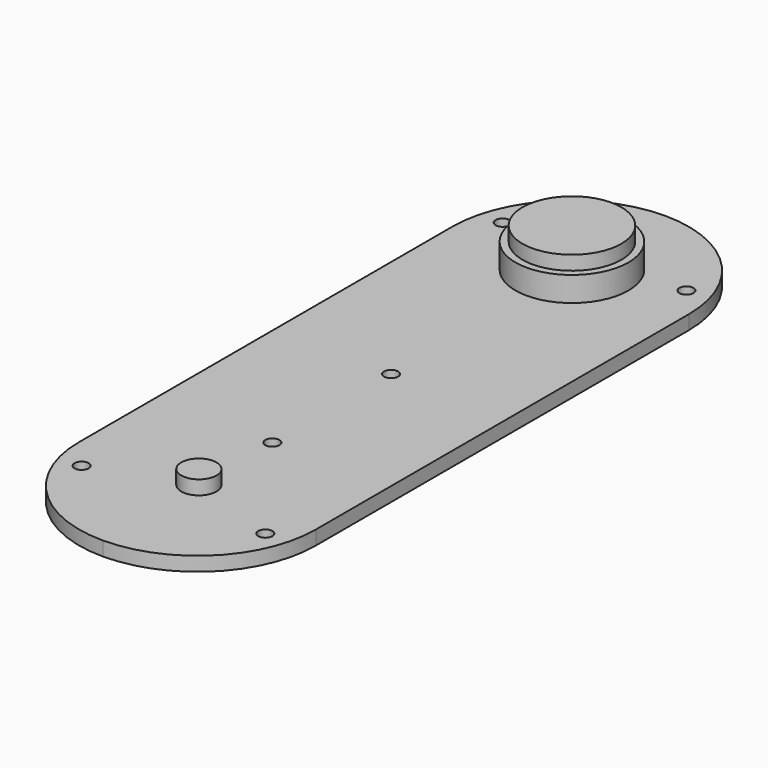
from build123d import *

# Parameters (mm, degrees)
F1_DEPTH = 2
F2_R     = 1
F3_DEPTH = 2.001
F4_R     = 8
F5_DEPTH = 3.5
F6_R     = 7
F7_DEPTH = 2
F8_R     = 2.5
F9_DEPTH = 2


with BuildPart() as f1:
    # F0 (on Top) → F1 (new body)
    with BuildSketch(Plane.XY):
        with BuildLine():
            Line((16.75, -33), (16.75, 33))
            ThreePointArc((16.75, 33), (11.844039, 44.844039), (0, 49.75))
            ThreePointArc((0, 49.75), (-11.844039, 44.844039), (-16.75, 33))
            Line((-16.75, 33), (-16.75, -33))
            ThreePointArc((-16.75, -33), (-11.844039, -44.844039), (0, -49.75))
            ThreePointArc((0, -49.75), (11.844039, -44.844039), (16.75, -33))
        make_face()
    extrude(amount=F1_DEPTH)

    # F2 (on face) → F3 (cut, through all)
    with BuildSketch(Plane.XY.offset(2)):
        with Locations((-13, -37.25)):
            Circle(F2_R)
        with Locations((13, -37.25)):
            Circle(F2_R)
        with Locations((0, 1.25)):
            Circle(F2_R)
        with Locations((0, -19.75)):
            Circle(F2_R)
        with Locations((13, 37.25)):
            Circle(F2_R)
        with Locations((-13, 37.25)):
            Circle(F2_R)
    extrude(amount=-F3_DEPTH, mode=Mode.SUBTRACT)

    # F4 (on face) → F5 (join)
    with BuildSketch(Plane.XY.offset(2)):
        with Locations((0, 33.25)):
            Circle(F4_R)
    extrude(amount=F5_DEPTH)

    # F6 (on face) → F7 (join)
    with BuildSketch(Plane.XY.offset(5.5)):
        with Locations((0, 33.25)):
            Circle(F6_R)
    extrude(amount=F7_DEPTH)

    # F8 (on face) → F9 (join)
    with BuildSketch(Plane.XY.offset(2)):
        with Locations((0, -32.75)):
            Circle(F8_R)
    extrude(amount=F9_DEPTH)


solid = f1.part
